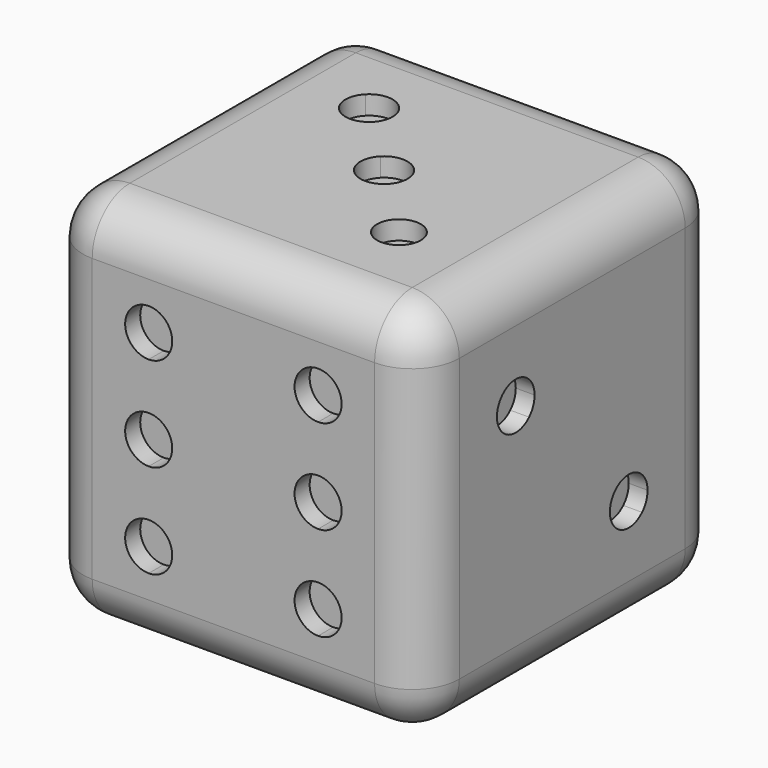
from build123d import *

# Parameters (mm, degrees)
F0_W      = 50.8
F0_H      = 50.8
F1_DEPTH  = 50.8
F2_R      = 6.35
F3_R      = 3.175
F4_DEPTH  = 2.54
F6_DEPTH  = 2.54
F8_DEPTH  = 2.54
F10_DEPTH = 2.54
F12_DEPTH = 2.54
F14_DEPTH = 2.54


with BuildPart() as f1:
    # F0 (on Top) → F1 (new body)
    with BuildSketch(Plane.XY):
        with Locations((-0.2253249615, 17.7784047042)):
            Rectangle(F0_W, F0_H)
    extrude(amount=F1_DEPTH)

    # F2
    f2_edges = [f1.edges().sort_by_distance(p)[0] for p in [
        (-25.625325, -7.621595, 25.4),
        (25.174675, -7.621595, 25.4),
        (-0.225325, -7.621595, 0),
        (-0.225325, -7.621595, 50.8),
        (25.174675, 43.178405, 25.4),
        (25.174675, 17.778405, 0),
        (-25.625325, 43.178405, 25.4),
        (25.174675, 17.778405, 50.8),
        (-0.225325, 43.178405, 0),
        (-25.625325, 17.778405, 0),
        (-25.625325, 17.778405, 50.8),
        (-0.225325, 43.178405, 50.8),
    ]]
    fillet(f2_edges, radius=F2_R)

    # F3 (on face) → F4 (cut)
    with BuildSketch(Plane(origin=(0, 43.1784047042, 0), x_dir=(-1, 0, 0), z_dir=(0, 1, 0))):
        with Locations((0, 25.4)):
            Circle(F3_R)
    extrude(amount=-F4_DEPTH, mode=Mode.SUBTRACT)

    # F5 (on face) → F6 (cut)
    with BuildSketch(Plane.XZ.offset(7.6215952958)):
        with BuildLine():
            Line((-11.6553249615, 34.925), (-11.6553249615, 41.275))
            ThreePointArc((-11.6553249615, 41.275), (-14.8303249615, 38.1), (-11.6553249615, 34.925))
        make_face()
        with BuildLine():
            ThreePointArc((-8.4803249615, 38.1), (-9.4102609313, 40.3450640303), (-11.6553249615, 41.275))
            Line((-11.6553249615, 41.275), (-11.6553249615, 34.925))
            ThreePointArc((-11.6553249615, 34.925), (-9.4102609313, 35.8549359697), (-8.4803249615, 38.1))
        make_face()
        with BuildLine():
            ThreePointArc((-8.4803249615, 25.4), (-9.4102609313, 27.6450640303), (-11.6553249615, 28.575))
            Line((-11.6553249615, 28.575), (-11.6553249615, 22.225))
            ThreePointArc((-11.6553249615, 22.225), (-9.4102609313, 23.1549359697), (-8.4803249615, 25.4))
        make_face()
        with BuildLine():
            Line((-11.6553249615, 22.225), (-11.6553249615, 28.575))
            ThreePointArc((-11.6553249615, 28.575), (-14.8303249615, 25.4), (-11.6553249615, 22.225))
        make_face()
        with BuildLine():
            Line((-11.6553249615, 15.875), (-11.6553249615, 9.525))
            ThreePointArc((-11.6553249615, 9.525), (-9.4102609313, 10.4549359697), (-8.4803249615, 12.7))
            ThreePointArc((-8.4803249615, 12.7), (-9.4102609313, 14.9450640303), (-11.6553249615, 15.875))
        make_face()
        with BuildLine():
            ThreePointArc((-11.6553249615, 15.875), (-14.8303249615, 12.7), (-11.6553249615, 9.525))
            Line((-11.6553249615, 9.525), (-11.6553249615, 15.875))
        make_face()
        with BuildLine():
            Line((11.2046750385, 15.875), (11.2046750385, 9.525))
            ThreePointArc((11.2046750385, 9.525), (13.4497390687, 10.4549359697), (14.3796750385, 12.7))
            ThreePointArc((14.3796750385, 12.7), (13.4497390687, 14.9450640303), (11.2046750385, 15.875))
        make_face()
        with BuildLine():
            ThreePointArc((11.2046750385, 15.875), (8.0296750385, 12.7), (11.2046750385, 9.525))
            Line((11.2046750385, 9.525), (11.2046750385, 15.875))
        make_face()
        with BuildLine():
            ThreePointArc((14.3796750385, 25.4), (13.4497390687, 27.6450640303), (11.2046750385, 28.575))
            Line((11.2046750385, 28.575), (11.2046750385, 22.225))
            ThreePointArc((11.2046750385, 22.225), (13.4497390687, 23.1549359697), (14.3796750385, 25.4))
        make_face()
        with BuildLine():
            Line((11.2046750385, 22.225), (11.2046750385, 28.575))
            ThreePointArc((11.2046750385, 28.575), (8.0296750385, 25.4), (11.2046750385, 22.225))
        make_face()
        with BuildLine():
            ThreePointArc((14.3796750385, 38.1), (13.4497390687, 40.3450640303), (11.2046750385, 41.275))
            Line((11.2046750385, 41.275), (11.2046750385, 34.925))
            ThreePointArc((11.2046750385, 34.925), (13.4497390687, 35.8549359697), (14.3796750385, 38.1))
        make_face()
        with BuildLine():
            Line((11.2046750385, 34.925), (11.2046750385, 41.275))
            ThreePointArc((11.2046750385, 41.275), (8.0296750385, 38.1), (11.2046750385, 34.925))
        make_face()
    extrude(amount=-F6_DEPTH, mode=Mode.SUBTRACT)

    # F7 (on face) → F8 (cut)
    with BuildSketch(Plane(origin=(-25.6253249615, 0, 0), x_dir=(0, -1, 0), z_dir=(-1, 0, 0))):
        with BuildLine():
            ThreePointArc((-24.1284047042, 34.925), (-25.0583406739, 37.1700640303), (-27.3034047042, 38.1))
            Line((-27.3034047042, 38.1), (-27.3034047042, 31.75))
            ThreePointArc((-27.3034047042, 31.75), (-25.0583406739, 32.6799359697), (-24.1284047042, 34.925))
        make_face()
        with BuildLine():
            Line((-27.3034047042, 31.75), (-27.3034047042, 38.1))
            ThreePointArc((-27.3034047042, 38.1), (-30.4784047042, 34.925), (-27.3034047042, 31.75))
        make_face()
        with BuildLine():
            Line((-8.2534047042, 31.75), (-8.2534047042, 38.1))
            ThreePointArc((-8.2534047042, 38.1), (-11.4284047042, 34.925), (-8.2534047042, 31.75))
        make_face()
        with BuildLine():
            ThreePointArc((-5.0784047042, 34.925), (-6.0083406739, 37.1700640303), (-8.2534047042, 38.1))
            Line((-8.2534047042, 38.1), (-8.2534047042, 31.75))
            ThreePointArc((-8.2534047042, 31.75), (-6.0083406739, 32.6799359697), (-5.0784047042, 34.925))
        make_face()
        with BuildLine():
            ThreePointArc((-14.6034047042, 25.4), (-15.5333406739, 27.6450640303), (-17.7784047042, 28.575))
            Line((-17.7784047042, 28.575), (-17.7784047042, 25.4))
            Line((-17.7784047042, 25.4), (-14.6034047042, 25.4))
        make_face()
        with BuildLine():
            Line((-14.6034047042, 25.4), (-17.7784047042, 25.4))
            Line((-17.7784047042, 25.4), (-17.7784047042, 22.225))
            ThreePointArc((-17.7784047042, 22.225), (-15.5333406739, 23.1549359697), (-14.6034047042, 25.4))
        make_face()
        with BuildLine():
            Line((-17.7784047042, 25.4), (-20.9534047042, 25.4))
            ThreePointArc((-20.9534047042, 25.4), (-20.0234687345, 23.1549359697), (-17.7784047042, 22.225))
            Line((-17.7784047042, 22.225), (-17.7784047042, 25.4))
        make_face()
        with BuildLine():
            ThreePointArc((-17.7784047042, 28.575), (-20.0234687345, 27.6450640303), (-20.9534047042, 25.4))
            Line((-20.9534047042, 25.4), (-17.7784047042, 25.4))
            Line((-17.7784047042, 25.4), (-17.7784047042, 28.575))
        make_face()
        with BuildLine():
            Line((-8.2534047042, 19.05), (-8.2534047042, 12.7))
            ThreePointArc((-8.2534047042, 12.7), (-6.0083406739, 13.6299359697), (-5.0784047042, 15.875))
            ThreePointArc((-5.0784047042, 15.875), (-6.0083406739, 18.1200640303), (-8.2534047042, 19.05))
        make_face()
        with BuildLine():
            ThreePointArc((-8.2534047042, 19.05), (-11.4284047042, 15.875), (-8.2534047042, 12.7))
            Line((-8.2534047042, 12.7), (-8.2534047042, 19.05))
        make_face()
        with BuildLine():
            ThreePointArc((-24.1284047042, 15.875), (-25.0583406739, 18.1200640303), (-27.3034047042, 19.05))
            Line((-27.3034047042, 19.05), (-27.3034047042, 12.7))
            ThreePointArc((-27.3034047042, 12.7), (-25.0583406739, 13.6299359697), (-24.1284047042, 15.875))
        make_face()
        with BuildLine():
            Line((-27.3034047042, 12.7), (-27.3034047042, 19.05))
            ThreePointArc((-27.3034047042, 19.05), (-30.4784047042, 15.875), (-27.3034047042, 12.7))
        make_face()
    extrude(amount=-F8_DEPTH, mode=Mode.SUBTRACT)

    # F9 (on face) → F10 (cut)
    with BuildSketch(Plane.YZ.offset(25.1746750385)):
        with BuildLine():
            ThreePointArc((30.4798430878, 15.8735616164), (28.5198629856, 18.8068791321), (25.0597790575, 18.1186256467))
            Line((25.0597790575, 18.1186256467), (29.5499071181, 13.6284975861))
            ThreePointArc((29.5499071181, 13.6284975861), (30.2381606035, 14.6585417186), (30.4798430878, 15.8735616164))
        make_face()
        with BuildLine():
            Line((29.5499071181, 13.6284975861), (25.0597790575, 18.1186256467))
            ThreePointArc((25.0597790575, 18.1186256467), (25.0597790575, 13.6284975861), (29.5499071181, 13.6284975861))
        make_face()
        with BuildLine():
            Line((10.4970303509, 32.6813743533), (6.0069022903, 37.1715024139))
            ThreePointArc((6.0069022903, 37.1715024139), (6.0069022903, 32.6813743533), (10.4970303509, 32.6813743533))
        make_face()
        with BuildLine():
            ThreePointArc((11.4269663206, 34.9264383836), (9.4669862183, 37.8597558993), (6.0069022903, 37.1715024139))
            Line((6.0069022903, 37.1715024139), (10.4970303509, 32.6813743533))
            ThreePointArc((10.4970303509, 32.6813743533), (11.1852838363, 33.7114184858), (11.4269663206, 34.9264383836))
        make_face()
    extrude(amount=-F10_DEPTH, mode=Mode.SUBTRACT)

    # F11 (on face) → F12 (cut)
    with BuildSketch(Plane(origin=(0, 0, 0), x_dir=(1, 0, 0), z_dir=(0, 0, -1))):
        with BuildLine():
            Line((8.0296750385, -6.3484047042), (14.3796750385, -6.3484047042))
            ThreePointArc((14.3796750385, -6.3484047042), (11.2046750385, -3.1734047042), (8.0296750385, -6.3484047042))
        make_face()
        with BuildLine():
            ThreePointArc((8.0296750385, -6.3484047042), (11.2046750385, -9.5234047042), (14.3796750385, -6.3484047042))
            Line((14.3796750385, -6.3484047042), (8.0296750385, -6.3484047042))
        make_face()
        with BuildLine():
            Line((8.0296750385, -29.2084047042), (14.3796750385, -29.2084047042))
            ThreePointArc((14.3796750385, -29.2084047042), (11.2046750385, -26.0334047042), (8.0296750385, -29.2084047042))
        make_face()
        with BuildLine():
            ThreePointArc((8.0296750385, -29.2084047042), (11.2046750385, -32.3834047042), (14.3796750385, -29.2084047042))
            Line((14.3796750385, -29.2084047042), (8.0296750385, -29.2084047042))
        make_face()
        with BuildLine():
            Line((-8.4803249615, -29.2084047042), (-14.8303249615, -29.2084047042))
            ThreePointArc((-14.8303249615, -29.2084047042), (-11.6553249615, -32.3834047042), (-8.4803249615, -29.2084047042))
        make_face()
        with BuildLine():
            ThreePointArc((-8.4803249615, -29.2084047042), (-11.6553249615, -26.0334047042), (-14.8303249615, -29.2084047042))
            Line((-14.8303249615, -29.2084047042), (-8.4803249615, -29.2084047042))
        make_face()
        with BuildLine():
            Line((-8.4803249615, -6.3484047042), (-14.8303249615, -6.3484047042))
            ThreePointArc((-14.8303249615, -6.3484047042), (-11.6553249615, -9.5234047042), (-8.4803249615, -6.3484047042))
        make_face()
        with BuildLine():
            ThreePointArc((-8.4803249615, -6.3484047042), (-11.6553249615, -3.1734047042), (-14.8303249615, -6.3484047042))
            Line((-14.8303249615, -6.3484047042), (-8.4803249615, -6.3484047042))
        make_face()
    extrude(amount=-F12_DEPTH, mode=Mode.SUBTRACT)

    # F13 (on face) → F14 (cut)
    with BuildSketch(Plane.XY.offset(50.8)):
        with BuildLine():
            Line((2.0197390687, 15.5333406739), (-2.4703889918, 20.0234687345))
            ThreePointArc((-2.4703889918, 20.0234687345), (-2.4703889918, 15.5333406739), (2.0197390687, 15.5333406739))
        make_face()
        with BuildLine():
            ThreePointArc((2.9496750385, 17.7784047042), (0.9896949362, 20.7117222199), (-2.4703889918, 20.0234687345))
            Line((-2.4703889918, 20.0234687345), (2.0197390687, 15.5333406739))
            ThreePointArc((2.0197390687, 15.5333406739), (2.7079925542, 16.5633848064), (2.9496750385, 17.7784047042))
        make_face()
        with BuildLine():
            ThreePointArc((-7.1214249615, 27.8495047042), (-9.0814050638, 30.7828222199), (-12.5414889918, 30.0945687345))
            Line((-12.5414889918, 30.0945687345), (-8.0513609313, 25.6044406739))
            ThreePointArc((-8.0513609313, 25.6044406739), (-7.3631074458, 26.6344848064), (-7.1214249615, 27.8495047042))
        make_face()
        with BuildLine():
            Line((-8.0513609313, 25.6044406739), (-12.5414889918, 30.0945687345))
            ThreePointArc((-12.5414889918, 30.0945687345), (-12.5414889918, 25.6044406739), (-8.0513609313, 25.6044406739))
        make_face()
        with BuildLine():
            Line((7.7587259792, 9.7943537635), (11.9328240977, 5.6202556449))
            ThreePointArc((11.9328240977, 5.6202556449), (12.5726360452, 6.5778018925), (12.7973081234, 7.7073047042))
            ThreePointArc((12.7973081234, 7.7073047042), (10.9752778502, 10.4341657109), (7.7587259792, 9.7943537635))
        make_face()
        with BuildLine():
            ThreePointArc((7.7587259792, 9.7943537635), (7.7587259792, 5.6202556449), (11.9328240977, 5.6202556449))
            Line((11.9328240977, 5.6202556449), (7.7587259792, 9.7943537635))
        make_face()
    extrude(amount=-F14_DEPTH, mode=Mode.SUBTRACT)


solid = f1.part
